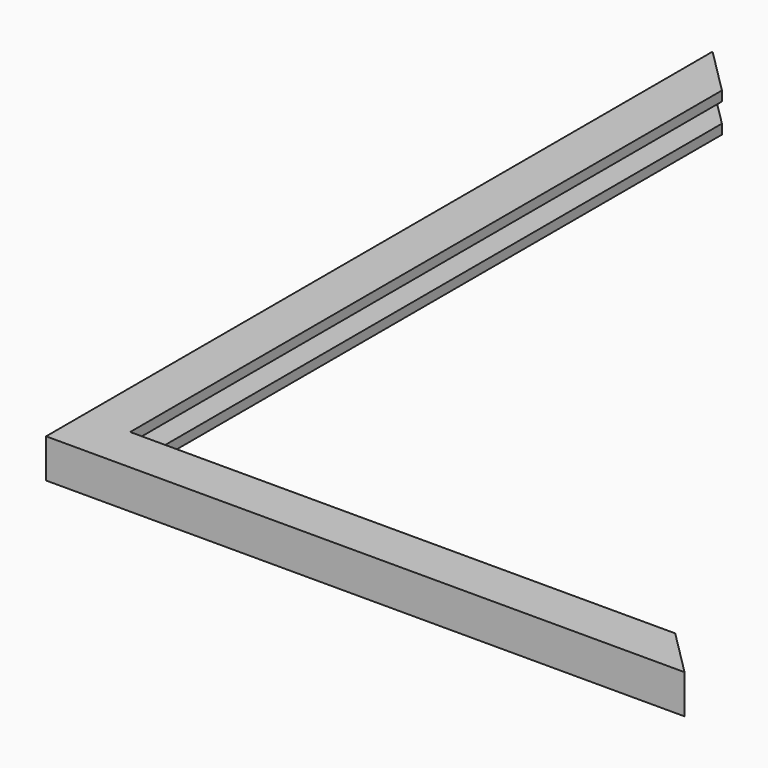
from build123d import *

# Parameters (mm, degrees)
F1_DEPTH      = 2.5
F1_DEPTH_BACK = 2.5
F2_DEPTH      = 1.25
F2_DEPTH_BACK = 1.25


with BuildPart() as f1:
    # F0 (on Top) → F1 (new body, two sides)
    with BuildSketch(Plane.XY) as f1_sk:
        Polygon((0, 107), (0, 0), (82, 0), (80, 2), (2, 2), (2, 105), align=None)
        Polygon((6, 101), (2, 105), (2, 2), (80, 2), (76, 6), (6, 6), align=None)
    extrude(amount=F1_DEPTH)
    extrude(f1_sk.sketch, amount=-F1_DEPTH_BACK)

    # F0 (on Top) → F2 (cut, two sides)
    with BuildSketch(Plane.XY) as f2_sk:
        Polygon((6, 101), (2, 105), (2, 2), (80, 2), (76, 6), (6, 6), align=None)
    extrude(amount=-F2_DEPTH, mode=Mode.SUBTRACT)
    extrude(f2_sk.sketch, amount=F2_DEPTH_BACK, mode=Mode.SUBTRACT)


solid = f1.part
